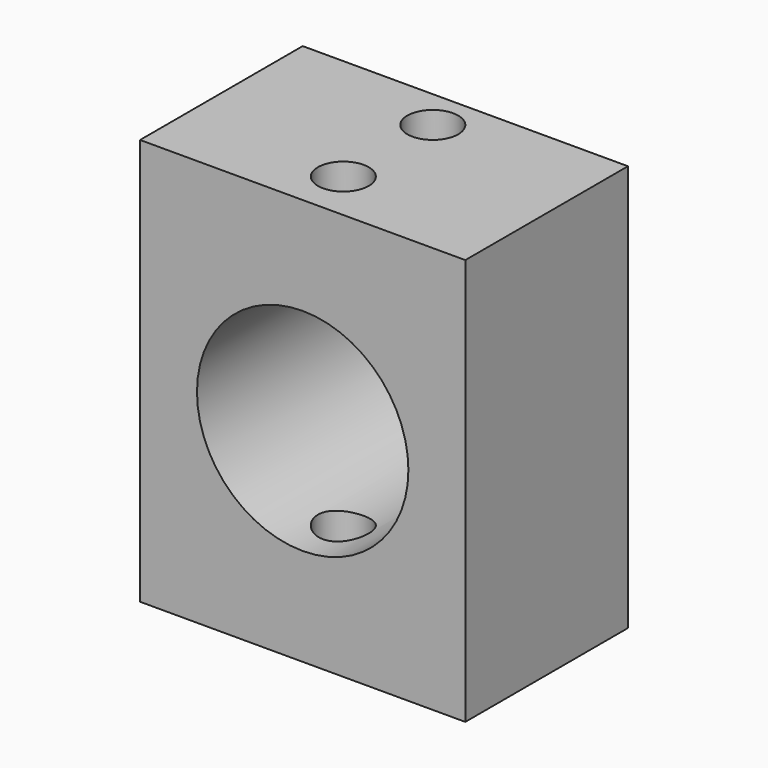
from build123d import *

# Parameters (mm, degrees)
CYLINDER938_R          = 1.25
CYLINDER938_DEPTH      = 10
CYLINDER938_ROLL_ANGLE = 90
CYLINDER939_R          = 1.25
CYLINDER939_DEPTH      = 20
CYLINDER939_ROLL_ANGLE = 90
CYLINDER937_R          = 5.2
CYLINDER937_DEPTH      = 10
BOX555_W               = 16
BOX555_H               = 20
BOX555_DEPTH           = 10
CUT690_ROLL_ANGLE      = 90


with BuildPart() as cylinder1081:
    # Cylinder938 → Cylinder938 (new body)
    with BuildSketch(Plane.XY):
        Circle(CYLINDER938_R)
    extrude(amount=CYLINDER938_DEPTH)


with BuildPart() as cylinder1081_1:
    # Cylinder938 roll: moved
    add(cylinder1081.part.rotate(Axis((0, 0, 0), (1, 0, 0)), CYLINDER938_ROLL_ANGLE))


with BuildPart() as cylinder1081_2:
    # Cylinder938 placement: moved
    add(cylinder1081_1.part.moved(Location((0, 10, 2))))


with BuildPart() as fusion587:
    # Cylinder939 → Cylinder939 (new body)
    with BuildSketch(Plane.XY):
        Circle(CYLINDER939_R)
    extrude(amount=CYLINDER939_DEPTH)


with BuildPart() as fusion587_1:
    # Cylinder939 roll: moved
    add(fusion587.part.rotate(Axis((0, 0, 0), (1, 0, 0)), CYLINDER939_ROLL_ANGLE))


with BuildPart() as fusion587_2:
    # Cylinder939 placement: moved
    add(fusion587_1.part.moved(Location((0, 10, 7.5))))

    # Fusion587: union Cylinder1081
    add(cylinder1081_2.part)


with BuildPart() as cylinder1080:
    # Cylinder937 → Cylinder937 (new body)
    with BuildSketch(Plane.XY):
        Circle(CYLINDER937_R)
    extrude(amount=CYLINDER937_DEPTH)


with BuildPart() as servo_shaft_coupler_holes:
    # Box555 → Box555 (new body)
    with BuildSketch(Plane(origin=(-8, -10, 0), x_dir=(1, 0, 0), z_dir=(0, 0, 1))):
        with Locations((8, 10)):
            Rectangle(BOX555_W, BOX555_H)
    extrude(amount=BOX555_DEPTH)

    # Cut689: cut Cylinder1080
    add(cylinder1080.part, mode=Mode.SUBTRACT)

    # Cut690: cut Fusion587
    add(fusion587_2.part, mode=Mode.SUBTRACT)


with BuildPart() as servo_shaft_coupler_holes_1:
    # Cut690 roll: moved
    add(servo_shaft_coupler_holes.part.rotate(Axis((0, 0, 0), (1, 0, 0)), CUT690_ROLL_ANGLE))


with BuildPart() as servo_shaft_coupler_holes_2:
    # Cut690 placement: moved
    add(servo_shaft_coupler_holes_1.part.moved(Location((37, 73, -11))))


solid = servo_shaft_coupler_holes_2.part
